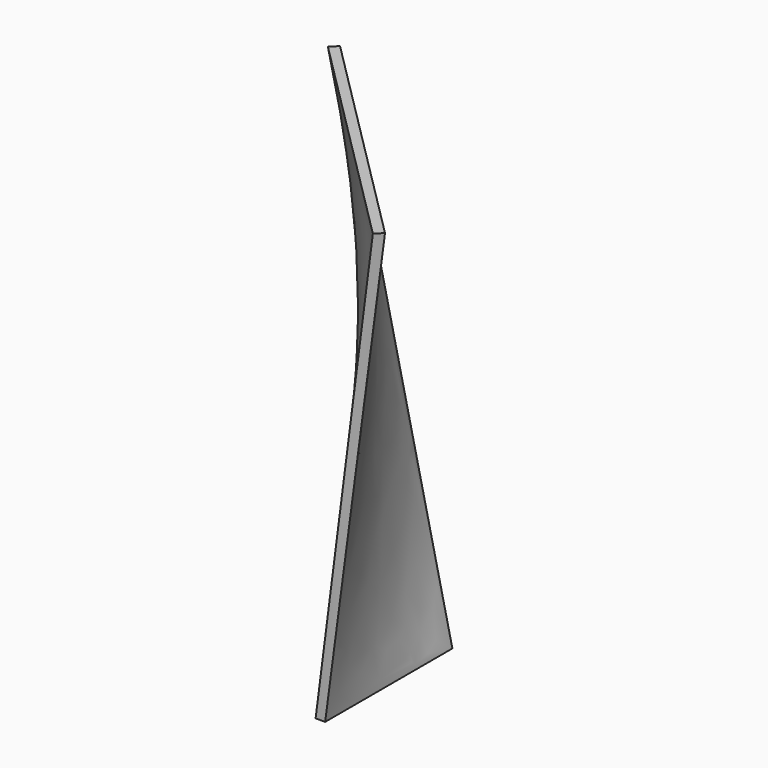
from build123d import *

# Parameters (mm, degrees)
F0_W = 3
F0_H = 50


with BuildPart() as f3:
    # F0 (on Top) → F3 section 0
    with BuildSketch(Plane.XY):
        with Locations((1.5, 25)):
            Rectangle(F0_W, F0_H)
    # F2 (on offset) → F3 section 1
    with BuildSketch(Plane.XY.offset(150)):
        Polygon((-40.710678, 55.710678), (30, -15), (32.12132, -12.87868), (-38.589358, 57.831998), align=None)
    loft()


solid = f3.part
